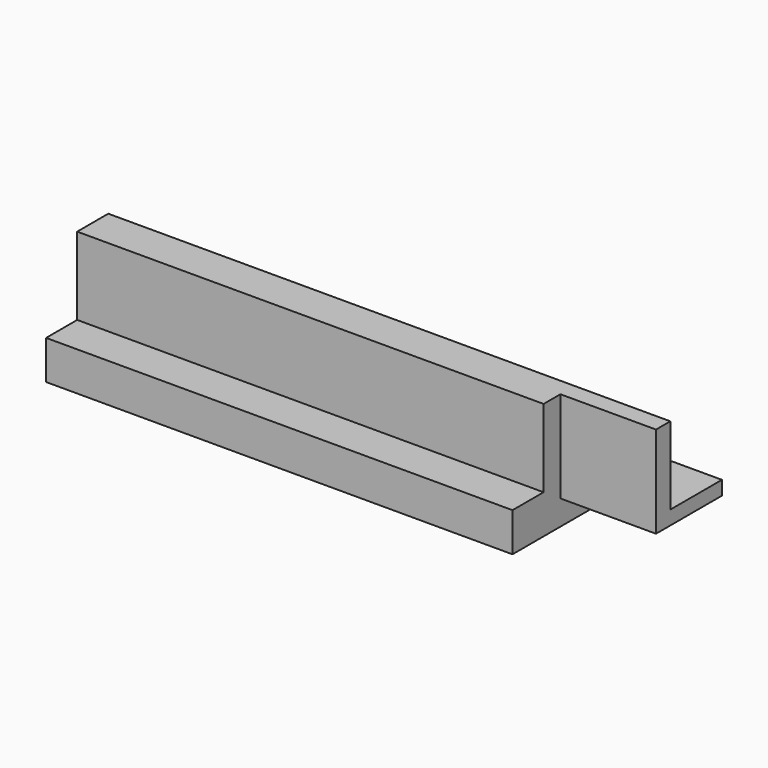
from build123d import *

# Parameters (mm, degrees)
SKETCH_W     = 120
SKETCH_H     = 40
PAD_DEPTH    = 10
SKETCH001_W  = 120
SKETCH001_H  = 10
PAD001_DEPTH = 20
PAD002_DEPTH = 24.6


with BuildPart() as part:
    # Sketch → Pad (new body)
    with BuildSketch(Plane.XY):
        with Locations((-60, 20)):
            Rectangle(SKETCH_W, SKETCH_H)
    extrude(amount=PAD_DEPTH)

    # Sketch001 (on Face6 of Pad) → Pad001 (join)
    with BuildSketch(Plane.XY.offset(10)):
        with Locations((-60, 15)):
            Rectangle(SKETCH001_W, SKETCH001_H)
    extrude(amount=PAD001_DEPTH)

    # Sketch002 (on Face8 of Pad001) → Pad002 (join)
    with BuildSketch(Plane.YZ):
        Polygon((15.4, 30), (15.4, 6.4), (36.6, 6.4), (36.6, 10), (20, 10), (20, 30), align=None)
    extrude(amount=PAD002_DEPTH)


solid = part.part
